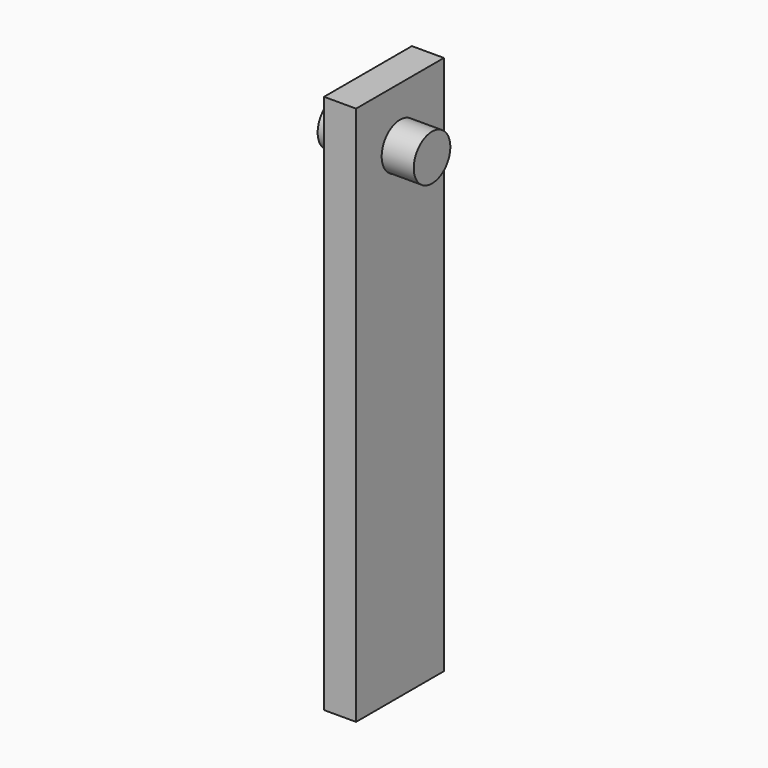
from build123d import *

# Parameters (mm, degrees)
F0_W     = 7
F0_H     = 24
F1_DEPTH = 118
F2_R     = 5
F3_DEPTH = 25
F4_R     = 5
F5_DEPTH = 21


with BuildPart() as f1:
    # F0 (on Top) → F1 (new body)
    with BuildSketch(Plane.XY):
        Rectangle(F0_W, F0_H)
    extrude(amount=F1_DEPTH)

    # F2 (on face) → F3 (cut)
    with BuildSketch(Plane.YZ.offset(3.5)):
        with Locations((0, 105.927028)):
            Circle(F2_R)
    extrude(amount=-F3_DEPTH, mode=Mode.SUBTRACT)


with BuildPart() as f5:
    # F4 (on Right) → F5 (new body)
    with BuildSketch(Plane.YZ):
        with Locations((0, 105.990663)):
            Circle(F4_R)
    extrude(amount=F5_DEPTH)


with BuildPart() as f5_1:
    # F6: moved
    add(f5.part.moved(Location((-10.5, 0, 0))))


solid = Compound([f1.part, f5_1.part])
